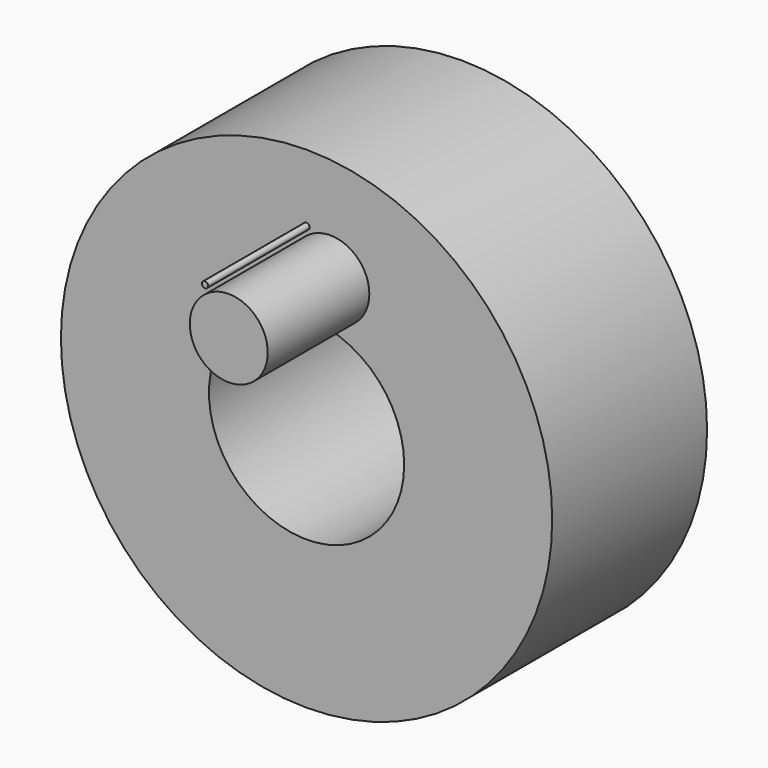
from build123d import *

# Parameters (mm, degrees)
F0_R     = 375.9060987096
F1_DEPTH = 270.80607
F2_R     = 149.3370096155
F3_DEPTH = 705.40455
F4_R     = 4.7459118068
F4_R_2   = 59.6341764552
F5_DEPTH = 465.10949
F7_DEPTH = 25.4


with BuildPart() as f1:
    # F0 (on Front) → F1 (new body)
    with BuildSketch(Plane.XZ):
        Circle(F0_R)
    extrude(amount=F1_DEPTH)

    # F2 (on Front) → F3 (cut)
    with BuildSketch(Plane.XZ):
        Circle(F2_R)
    extrude(amount=F3_DEPTH, mode=Mode.SUBTRACT)

    # F4 (on Front) → F5 (join)
    with BuildSketch(Plane.XZ):
        with Locations((0, 272.8897631168)):
            Circle(F4_R)
        with Locations((36.3853052258, 212.7749174833)):
            Circle(F4_R_2)
    extrude(amount=F5_DEPTH)

    # F7 (add): a face of the model
    f7_faces = [f1.faces().sort_by_distance(p)[0] for p in [
        (-365.2738686502, 0, 0),
    ]]
    extrude(f7_faces, amount=F7_DEPTH)


solid = f1.part
